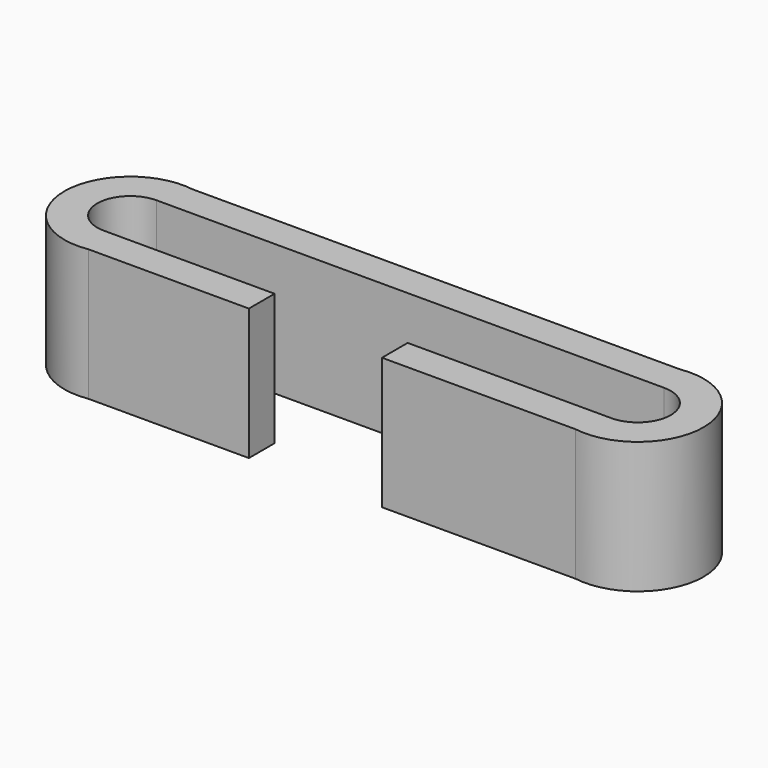
from build123d import *

# Parameters (mm, degrees)
F1_DEPTH = 25.4


with BuildPart() as f1:
    # F0 (on Top) → F1 (new body)
    with BuildSketch(Plane.XY):
        with BuildLine():
            ThreePointArc((46.987243, -12.544598), (61.667915, 0), (46.987243, 12.544598))
            Line((46.987243, 12.544598), (-46.987243, 12.544598))
            ThreePointArc((-46.987243, 12.544598), (-61.667915, 0), (-46.987243, -12.544598))
            Line((-46.987243, -12.544598), (-16.036486, -12.544598))
            Line((-16.036486, -12.544598), (-16.036486, -6.35))
            Line((-16.036486, -6.35), (-48.967915, -6.35))
            ThreePointArc((-48.967915, -6.35), (-55.317915, 0), (-48.967915, 6.35))
            Line((-48.967915, 6.35), (48.967915, 6.35))
            ThreePointArc((48.967915, 6.35), (55.317915, 0), (48.967915, -6.35))
            Line((48.967915, -6.35), (9.644866, -6.35))
            Line((9.644866, -6.35), (9.644866, -12.544598))
            Line((9.644866, -12.544598), (46.987243, -12.544598))
        make_face()
    extrude(amount=F1_DEPTH)


solid = f1.part
